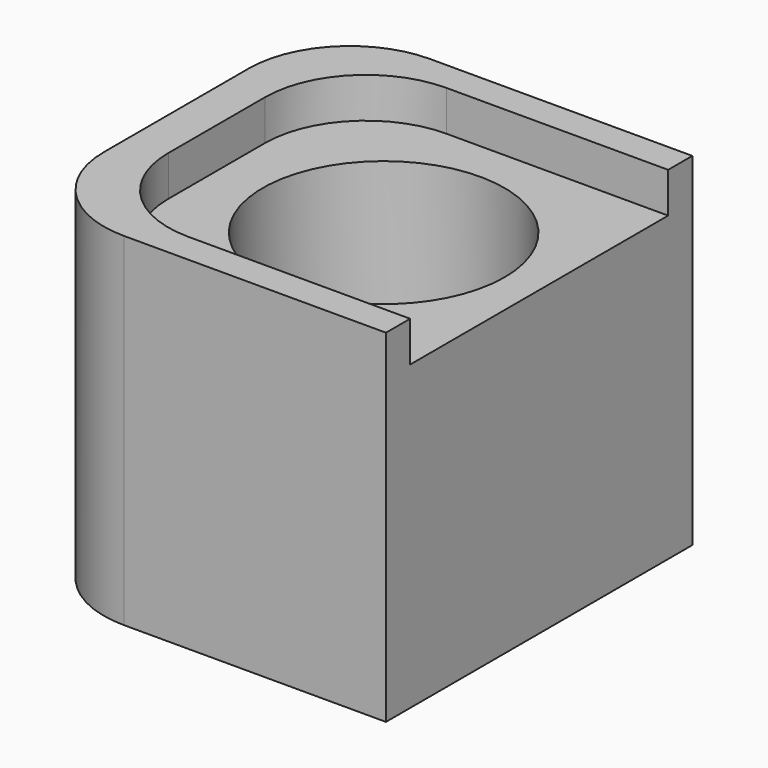
from build123d import *

# Parameters (mm, degrees)
F0_W          = 16
F0_H          = 16
F0_R          = 6
F0_R_2        = 3.7
F1_DEPTH      = 15
F2_DEPTH      = 2
F2_DEPTH_BACK = 15
F3_R          = 5
F4_DEPTH      = 10


with BuildPart() as f1:
    # F0 (on Top) → F1 (new body)
    with BuildSketch(Plane.XY):
        Rectangle(F0_W, F0_H)
        with Locations((0.285, 0)):
            Circle(F0_R, mode=Mode.SUBTRACT)
        with Locations((0.285, 0)):
            Circle(F0_R)
        with Locations((0.285, 0)):
            Circle(F0_R_2, mode=Mode.SUBTRACT)
    extrude(amount=-F1_DEPTH)

    # F0 (on Top) → F2 (join, two sides)
    with BuildSketch(Plane.XY) as f2_sk:
        Polygon((8, -9.5), (8, -8), (-8, -8), (-8, 8), (8, 8), (8, 9.5), (-10, 9.5), (-10, -9.5), align=None)
    extrude(amount=F2_DEPTH)
    extrude(f2_sk.sketch, amount=-F2_DEPTH_BACK)

    # F3
    f3_edges = [f1.edges().sort_by_distance(p)[0] for p in [
        (-8, 8, 1),
        (-8, -8, 1),
        (-10, 9.5, -6.5),
        (-10, -9.5, -6.5),
    ]]
    fillet(f3_edges, radius=F3_R)

    # F0 (on Top) → F4 (cut)
    with BuildSketch(Plane.XY):
        with Locations((0.285, 0)):
            Circle(F0_R)
        with Locations((0.285, 0)):
            Circle(F0_R_2, mode=Mode.SUBTRACT)
    extrude(amount=-F4_DEPTH, mode=Mode.SUBTRACT)


solid = f1.part
